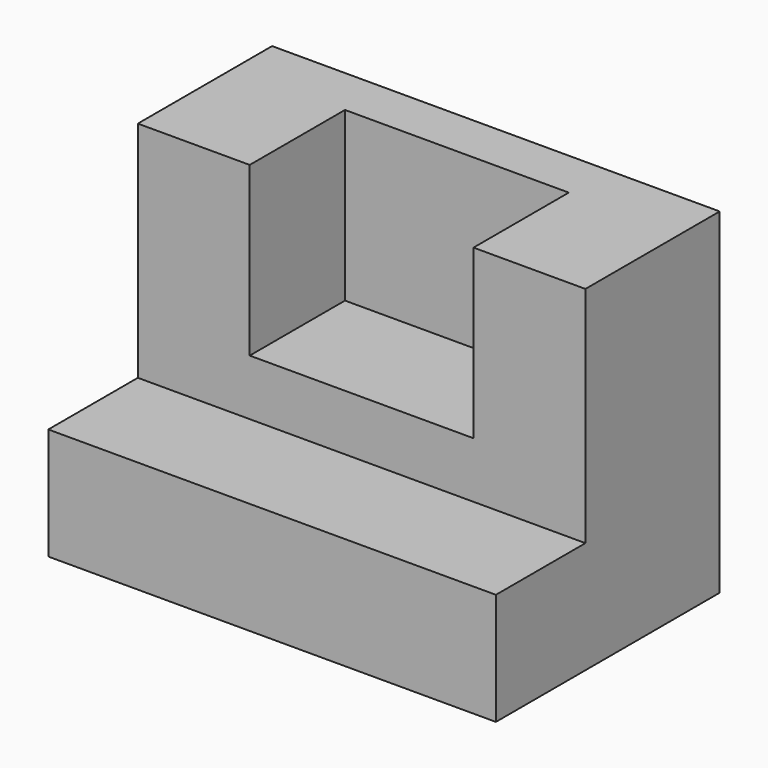
from build123d import *

# Parameters (mm, degrees)
F1_DEPTH = 101.6
F3_DEPTH = 130.048
F4_W     = 11.070052
F4_H     = 38.1
F5_DEPTH = 60.198


with BuildPart() as f1:
    # F0 (on Right) → F1 (new body)
    with BuildSketch(Plane.YZ):
        Polygon((11.070052, 44.179608), (-27.029948, 44.179608), (-27.029948, -6.620392), (-52.429948, -6.620392), (-52.429948, -32.020392), (11.070052, -32.020392), align=None)
    extrude(amount=F1_DEPTH)

    # F2 (on face) → F3 (cut)
    with BuildSketch(Plane.XZ.offset(27.029948)):
        Polygon((76.2, 44.179608), (50.8, 44.179608), (25.4, 44.179608), (25.4, 6.079608), (76.2, 6.079608), align=None)
        Polygon((76.2, 44.179608), (50.8, 44.179608), (25.4, 44.179608), (25.4, 6.079608), (76.2, 6.079608), align=None)
    extrude(amount=-F3_DEPTH, mode=Mode.SUBTRACT)

    # F4 (on face) → F5 (join)
    with BuildSketch(Plane(origin=(76.2, 0, 0), x_dir=(0, -1, 0), z_dir=(-1, 0, 0))):
        with Locations((-5.535026, 25.129608)):
            Rectangle(F4_W, F4_H)
    extrude(amount=F5_DEPTH)


solid = f1.part
